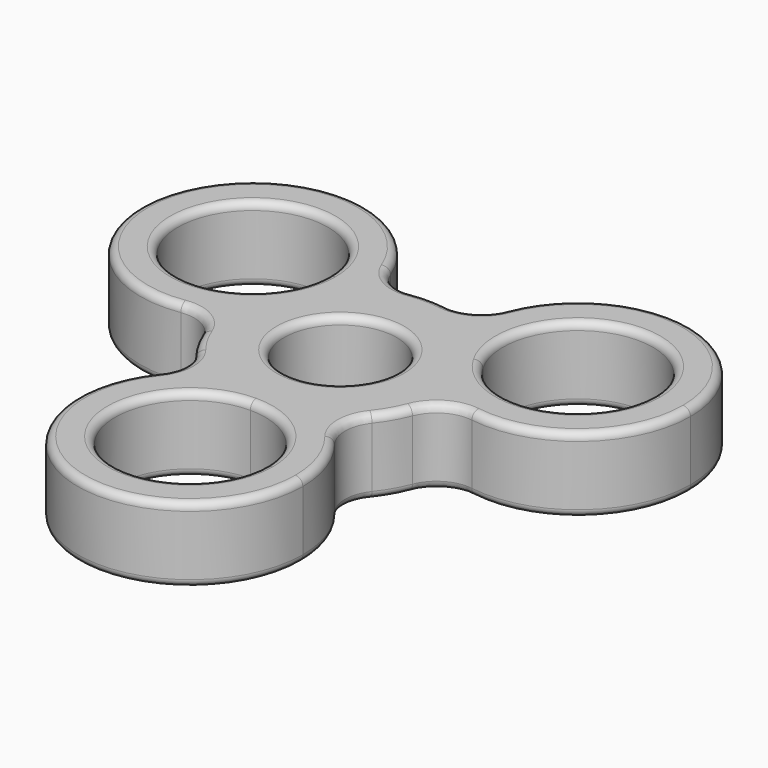
from build123d import *

# Parameters (mm, degrees)
F0_R     = 7.5
F1_DEPTH = 10
F2_R     = 5
F3_R     = 1


with BuildPart() as f1:
    # F0 (on Top) → F1 (new body)
    with BuildSketch(Plane.XY):
        with BuildLine():
            ThreePointArc((-12.990381291, 7.4999995942), (-10.2722796251, 10.9307031477), (-6.6795365594, 13.4307033082))
            ThreePointArc((-6.6795365594, 13.4307033082), (-34.6410161514, 20), (-14.9710985352, -0.9307033082))
            ThreePointArc((-14.9710985352, -0.9307033082), (-14.6024065269, 3.4307030801), (-12.990381291, 7.4999995942))
        make_face()
        with BuildLine():
            ThreePointArc((-11.6506350946, 12.5), (-11.9913768924, 9.9118093227), (-12.990381291, 7.4999995942))
            ThreePointArc((-12.990381291, 7.4999995942), (-31.3098932969, 15.0881906773), (-11.6506350946, 12.5))
        make_face(mode=Mode.SUBTRACT)
        with BuildLine():
            ThreePointArc((8.2915619759, -12.5), (12.9903810568, -7.5), (14.9710985352, -0.9307033082))
            ThreePointArc((14.9710985352, -0.9307033082), (8.6602540378, 5), (6.6795365594, 13.4307033082))
            ThreePointArc((6.6795365594, 13.4307033082), (0, 15), (-6.6795365594, 13.4307033082))
            ThreePointArc((-6.6795365594, 13.4307033082), (-6.6578622018, 12.9655759719), (-6.6506350946, 12.5))
            ThreePointArc((-6.6506350946, 12.5), (-8.8993008823, 4.6004129345), (-14.9710985352, -0.9307033082))
            ThreePointArc((-14.9710985352, -0.9307033082), (-12.9903810568, -7.5), (-8.2915619759, -12.5))
            ThreePointArc((-8.2915619759, -12.5), (0, -10), (8.2915619759, -12.5))
        make_face()
        Circle(F0_R, mode=Mode.SUBTRACT)
        with BuildLine():
            ThreePointArc((-6.6506350946, 12.5), (-6.6578622018, 12.9655759719), (-6.6795365594, 13.4307033082))
            ThreePointArc((-6.6795365594, 13.4307033082), (-10.2722796251, 10.9307031477), (-12.990381291, 7.4999995942))
            ThreePointArc((-12.990381291, 7.4999995942), (-14.6024065269, 3.4307030801), (-14.9710985352, -0.9307033082))
            ThreePointArc((-14.9710985352, -0.9307033082), (-8.8993008823, 4.6004129345), (-6.6506350946, 12.5))
        make_face()
        with BuildLine():
            ThreePointArc((14.9710985352, -0.9307033082), (14.9927728928, -0.4655759719), (15, 0))
            ThreePointArc((15, 0), (14.4888874803, 3.8822853555), (12.9903813891, 7.4999994244))
            ThreePointArc((12.9903813891, 7.4999994244), (10.2722796965, 10.9307030806), (6.6795365594, 13.4307033082))
            ThreePointArc((6.6795365594, 13.4307033082), (8.6602540378, 5), (14.9710985352, -0.9307033082))
        make_face()
        with BuildLine():
            ThreePointArc((12.9903813891, 7.4999994244), (14.4888874803, 3.8822853555), (15, 0))
            ThreePointArc((15, 0), (14.9927728928, -0.4655759719), (14.9710985352, -0.9307033082))
            ThreePointArc((14.9710985352, -0.9307033082), (29.5502221601, -0.2513342124), (36.6506350946, 12.5))
            ThreePointArc((36.6506350946, 12.5), (22.1162110665, 27.4927728928), (6.6795365594, 13.4307033082))
            ThreePointArc((6.6795365594, 13.4307033082), (10.2722796965, 10.9307030806), (12.9903813891, 7.4999994244))
        make_face()
        with BuildLine():
            ThreePointArc((31.6506350946, 12.5), (24.2388258666, 2.8407418231), (12.9903813891, 7.4999994244))
            ThreePointArc((12.9903813891, 7.4999994244), (19.0624443226, 22.1592581769), (31.6506350946, 12.5))
        make_face(mode=Mode.SUBTRACT)
        with BuildLine():
            ThreePointArc((-1.91e-08, -15), (4.3301270098, -14.3614066191), (8.2915619759, -12.5))
            ThreePointArc((8.2915619759, -12.5), (0, -10), (-8.2915619759, -12.5))
            ThreePointArc((-8.2915619759, -12.5), (-4.330127028, -14.3614066136), (-1.91e-08, -15))
        make_face()
        with BuildLine():
            ThreePointArc((15, -25), (13.2169101843, -17.9068141727), (8.2915619759, -12.5))
            ThreePointArc((8.2915619759, -12.5), (4.3301270098, -14.3614066191), (-1.91e-08, -15))
            ThreePointArc((-1.91e-08, -15), (-4.330127028, -14.3614066136), (-8.2915619759, -12.5))
            ThreePointArc((-8.2915619759, -12.5), (-7.0931858273, -38.2169101843), (15, -25))
        make_face()
        with BuildLine():
            ThreePointArc((10, -25), (-7.0710678051, -32.0710678186), (-1.91e-08, -15))
            ThreePointArc((-1.91e-08, -15), (7.0710678051, -17.9289321814), (10, -25))
        make_face(mode=Mode.SUBTRACT)
    extrude(amount=F1_DEPTH)

    # F2
    f2_edges = [f1.edges().sort_by_distance(p)[0] for p in [
        (14.971099, -0.930703, 5),
        (8.291562, -12.5, 5),
        (-8.291562, -12.5, 5),
        (-14.971099, -0.930703, 5),
        (-6.679537, 13.430703, 5),
        (6.679537, 13.430703, 5),
    ]]
    fillet(f2_edges, radius=F2_R)

    # F3
    f3_edges = [f1.edges().sort_by_distance(p)[0] for p in [
        (0, -40, 0),
        (34.641016, 20, 0),
        (34.641016, 20, 10),
        (-34.641016, 20, 0),
        (-34.641016, 20, 10),
        (12.990381, -7.5, 0),
        (-30.310889, 17.5, 10),
        (-30.310889, 17.5, 0),
        (0, -35, 10),
        (30.310889, 17.500001, 0),
        (12.990381, -7.5, 10),
        (30.310889, 17.500001, 10),
        (0, -40, 10),
        (-19.386333, -2.328113, 5),
        (10.612495, -12.5, 0),
        (10.612495, -12.5, 10),
        (11.709371, -9.375, 5),
        (11.709371, -15.625, 5),
        (16.131565, -2.94069, 0),
        (13.973674, -5.453113, 5),
        (19.386333, -2.328113, 5),
        (0, 15, 0),
        (-7.5, 0, 10),
        (-7.676961, 17.953113, 5),
        (-16.131565, -2.94069, 10),
        (5.51907, 15.44069, 0),
        (-11.709371, -15.625, 5),
        (-10.612495, -12.5, 0),
        (-5.51907, 15.44069, 10),
        (-7.5, 0, 0),
        (0, -35, 0),
        (0, 15, 10),
        (16.131565, -2.94069, 10),
        (-10.612495, -12.5, 10),
        (5.51907, 15.44069, 10),
        (-5.51907, 15.44069, 0),
        (7.676961, 17.953113, 5),
        (-12.990381, -7.5, 10),
        (-12.990381, -7.5, 0),
        (-11.709371, -9.375, 5),
        (-2.264303, 14.828113, 5),
        (-13.973674, -5.453113, 5),
        (2.264303, 14.828113, 5),
        (-16.131565, -2.94069, 0),
    ]]
    fillet(f3_edges, radius=F3_R)


solid = f1.part
